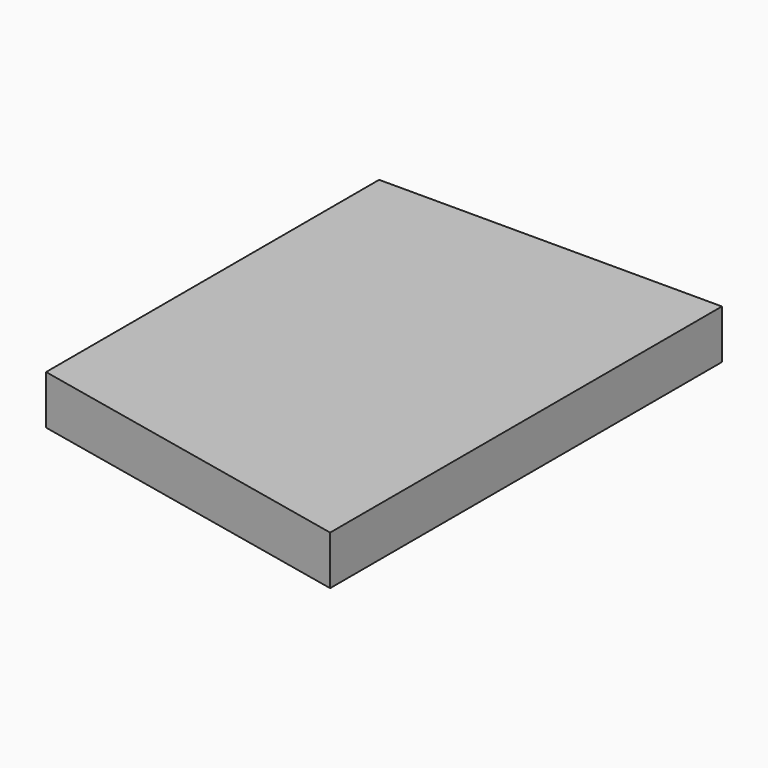
from build123d import *

# Parameters (mm, degrees)
F0_W     = 35.56
F0_H     = 50.8
F1_DEPTH = 5.08
F3_DEPTH = 25.4


with BuildPart() as f1:
    # F0 (on Top) → F1 (new body)
    with BuildSketch(Plane.XY):
        with Locations((-19.275155, -3.191117)):
            Rectangle(F0_W, F0_H)
    extrude(amount=F1_DEPTH)

    # F2 (on face) → F3 (cut)
    with BuildSketch(Plane.XY.offset(5.08)):
        Polygon((-37.055155, -28.591117), (-1.495155, -28.591117), (-37.055155, -20.971117), align=None)
    extrude(amount=-F3_DEPTH, mode=Mode.SUBTRACT)


solid = f1.part
